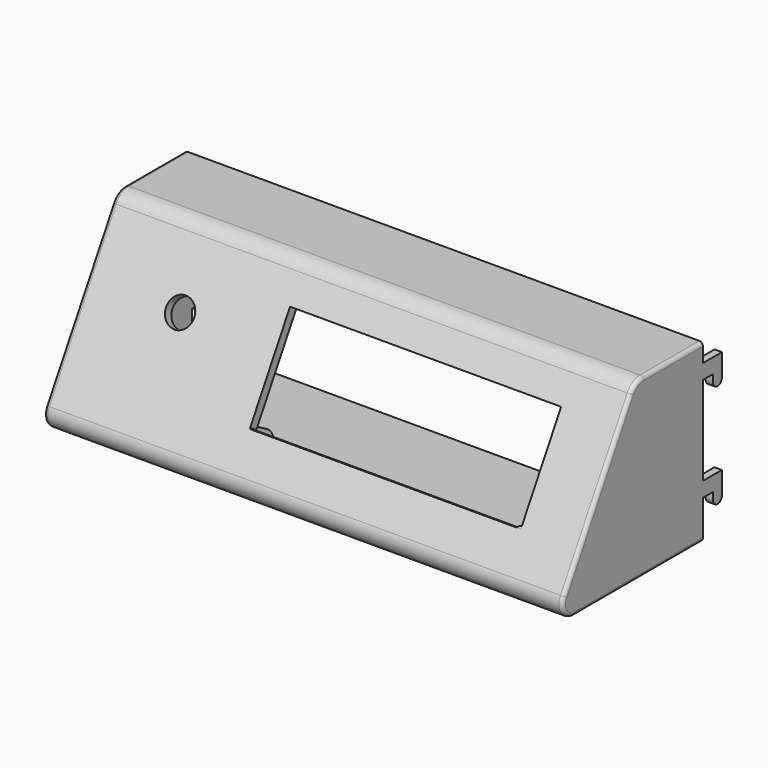
from build123d import *

# Parameters (mm, degrees)
REVOLVE001_PLACEMENT_ANGLE  = 330
REVOLVE002_PLACEMENT_ANGLE  = 330
REVOLVE003_PLACEMENT_ANGLE  = 330
REVOLVE_PLACEMENT_ANGLE     = 330
EXTRUDE008_DEPTH            = 2
EXTRUDE007_DEPTH            = 2
CYLINDER011_R               = 3.8
CYLINDER011_DEPTH           = 3
CYLINDER011_PLACEMENT_ANGLE = 60
BOX020_W                    = 73.2
BOX020_H                    = 27.2
BOX020_DEPTH                = 3
BOX020_PLACEMENT_ANGLE      = 60
EXTRUDE006_DEPTH            = 140
FILLET013_R                 = 1
FILLET014_R                 = 1


with BuildPart() as revolve001:
    # Sketch040 → Revolve001 (revolve)
    with BuildSketch(Plane.YZ):
        with BuildLine():
            Line((0, 0), (0, 2.3))
            Line((0, 2.3), (8.5, 2.3))
            Line((8.5, 2.3), (8.5, 1.35))
            Line((8.5, 1.35), (5.1, 1.35))
            ThreePointArc((5.1, 1.35), (3.75, 1.75), (2.4, 1.35))
            Line((1.4, 1.35), (2.4, 1.35))
            Line((1.4, 0), (1.4, 1.35))
            Line((0, 0), (1.4, 0))
        make_face()
    revolve(axis=Axis((0, 0, 0), (0, 1, 0)))


with BuildPart() as revolve001_1:
    # Revolve001 placement: moved
    add(revolve001.part.moved(Location((-21.009, -76.9733, -41.739))).rotate(Axis((-21.009, -76.9733, -41.739), (1, 0, 0)), REVOLVE001_PLACEMENT_ANGLE))


with BuildPart() as revolve002:
    # Sketch040 → Revolve002 (revolve)
    with BuildSketch(Plane.YZ):
        with BuildLine():
            Line((0, 0), (0, 2.3))
            Line((0, 2.3), (8.5, 2.3))
            Line((8.5, 2.3), (8.5, 1.35))
            Line((8.5, 1.35), (5.1, 1.35))
            ThreePointArc((5.1, 1.35), (3.75, 1.75), (2.4, 1.35))
            Line((1.4, 1.35), (2.4, 1.35))
            Line((1.4, 0), (1.4, 1.35))
            Line((0, 0), (1.4, 0))
        make_face()
    revolve(axis=Axis((0, 0, 0), (0, 1, 0)))


with BuildPart() as revolve002_1:
    # Revolve002 placement: moved
    add(revolve002.part.moved(Location((-21.009, -92.473316, -68.585836))).rotate(Axis((-21.009, -92.473316, -68.585836), (1, 0, 0)), REVOLVE002_PLACEMENT_ANGLE))


with BuildPart() as revolve003:
    # Sketch040 → Revolve003 (revolve)
    with BuildSketch(Plane.YZ):
        with BuildLine():
            Line((0, 0), (0, 2.3))
            Line((0, 2.3), (8.5, 2.3))
            Line((8.5, 2.3), (8.5, 1.35))
            Line((8.5, 1.35), (5.1, 1.35))
            ThreePointArc((5.1, 1.35), (3.75, 1.75), (2.4, 1.35))
            Line((1.4, 1.35), (2.4, 1.35))
            Line((1.4, 0), (1.4, 1.35))
            Line((0, 0), (1.4, 0))
        make_face()
    revolve(axis=Axis((0, 0, 0), (0, 1, 0)))


with BuildPart() as revolve003_1:
    # Revolve003 placement: moved
    add(revolve003.part.moved(Location((53.991, -92.4733, -68.5858))).rotate(Axis((53.991, -92.4733, -68.5858), (1, 0, 0)), REVOLVE003_PLACEMENT_ANGLE))


with BuildPart() as revolve_body:
    # Sketch040 → Revolve (revolve)
    with BuildSketch(Plane.YZ):
        with BuildLine():
            Line((0, 0), (0, 2.3))
            Line((0, 2.3), (8.5, 2.3))
            Line((8.5, 2.3), (8.5, 1.35))
            Line((8.5, 1.35), (5.1, 1.35))
            ThreePointArc((5.1, 1.35), (3.75, 1.75), (2.4, 1.35))
            Line((1.4, 1.35), (2.4, 1.35))
            Line((1.4, 0), (1.4, 1.35))
            Line((0, 0), (1.4, 0))
        make_face()
    revolve(axis=Axis((0, 0, 0), (0, 1, 0)))


with BuildPart() as revolve_body_1:
    # Revolve placement: moved
    add(revolve_body.part.moved(Location((53.991, -76.973316, -41.739049))).rotate(Axis((53.991, -76.973316, -41.739049), (1, 0, 0)), REVOLVE_PLACEMENT_ANGLE))


with BuildPart() as extrude008:
    # Sketch032 → Extrude008 (new body)
    with BuildSketch(Plane.YZ):
        with BuildLine():
            Line((0, 0), (-43.366025, 0))
            ThreePointArc((-44.665064, 2.25), (-44.665064, 0.75), (-43.366025, 0))
            Line((-44.665064, 2.25), (-22.165064, 41.221143))
            ThreePointArc((-20, 42.471143), (-21.25, 42.136207), (-22.165064, 41.221143))
            Line((-20, 42.471143), (0, 42.471143))
            Line((0, 42.471143), (0, 40))
            Line((0, 40), (6.4, 40))
            Line((6.4, 40), (6.4, 34))
            ThreePointArc((3.4, 34), (4.9, 32.5), (6.4, 34))
            Line((3.4, 36), (3.4, 34))
            Line((0, 36), (3.4, 36))
            Line((0, 36), (0, 12))
            Line((6.4, 12), (0, 12))
            Line((6.4, 6), (6.4, 12))
            ThreePointArc((3.4, 6), (4.9, 4.5), (6.4, 6))
            Line((3.4, 8), (3.4, 6))
            Line((0, 8), (3.4, 8))
            Line((0, 0), (0, 8))
        make_face()
    extrude(amount=EXTRUDE008_DEPTH)


with BuildPart() as extrude008_1:
    # Extrude008 placement: moved
    add(extrude008.part.moved(Location((-70.558895, -50.039221, -79.500001))))


with BuildPart() as extrude007:
    # Sketch032 → Extrude007 (new body)
    with BuildSketch(Plane.YZ):
        with BuildLine():
            Line((0, 0), (-43.366025, 0))
            ThreePointArc((-44.665064, 2.25), (-44.665064, 0.75), (-43.366025, 0))
            Line((-44.665064, 2.25), (-22.165064, 41.221143))
            ThreePointArc((-20, 42.471143), (-21.25, 42.136207), (-22.165064, 41.221143))
            Line((-20, 42.471143), (0, 42.471143))
            Line((0, 42.471143), (0, 40))
            Line((0, 40), (6.4, 40))
            Line((6.4, 40), (6.4, 34))
            ThreePointArc((3.4, 34), (4.9, 32.5), (6.4, 34))
            Line((3.4, 36), (3.4, 34))
            Line((0, 36), (3.4, 36))
            Line((0, 36), (0, 12))
            Line((6.4, 12), (0, 12))
            Line((6.4, 6), (6.4, 12))
            ThreePointArc((3.4, 6), (4.9, 4.5), (6.4, 6))
            Line((3.4, 8), (3.4, 6))
            Line((0, 8), (3.4, 8))
            Line((0, 0), (0, 8))
        make_face()
    extrude(amount=EXTRUDE007_DEPTH)


with BuildPart() as extrude007_1:
    # Extrude007 placement: moved
    add(extrude007.part.moved(Location((67.441105, -50.039221, -79.500001))))


with BuildPart() as cylinder011:
    # Cylinder011 → Cylinder011 (new body)
    with BuildSketch(Plane.XY):
        Circle(CYLINDER011_R)
    extrude(amount=CYLINDER011_DEPTH)


with BuildPart() as cylinder011_1:
    # Cylinder011 placement: moved
    add(cylinder011.part.moved(Location((25, -10.2958, 29.038294))).rotate(Axis((25, -10.2958, 29.038294), (1, 0, 0)), CYLINDER011_PLACEMENT_ANGLE))


with BuildPart() as cube004:
    # Box020 → Box020 (new body)
    with BuildSketch(Plane.XY):
        with Locations((36.6, 13.6)):
            Rectangle(BOX020_W, BOX020_H)
    extrude(amount=BOX020_DEPTH)


with BuildPart() as cube004_1:
    # Box020 placement: moved
    add(cube004.part.moved(Location((51, -19.2958, 13.449837))).rotate(Axis((51, -19.2958, 13.449837), (1, 0, 0)), BOX020_PLACEMENT_ANGLE))


with BuildPart() as fusion010:
    # Sketch031 → Extrude006 (new body)
    with BuildSketch(Plane.YZ):
        with BuildLine():
            Line((20, 47.471143), (0, 47.471143))
            ThreePointArc((0, 47.471143), (-2.5, 46.80127), (-4.330127, 44.971143))
            Line((-4.330127, 44.971143), (-26.830127, 6))
            ThreePointArc((-26.830127, 6), (-26.830127, 2), (-23.366025, 0))
            Line((-23.366025, 0), (20, 0))
            Line((20, 0), (20, 2.5))
            Line((20, 2.5), (-23.366025, 2.5))
            ThreePointArc((-24.665064, 4.75), (-24.665064, 3.25), (-23.366025, 2.5))
            Line((-24.665064, 4.75), (-2.165064, 43.721143))
            ThreePointArc((0, 44.971143), (-1.25, 44.636207), (-2.165064, 43.721143))
            Line((0, 44.971143), (20, 44.971143))
            Line((20, 44.971143), (20, 47.471143))
        make_face()
    extrude(amount=EXTRUDE006_DEPTH)

    # Cut003: cut Cube004
    add(cube004_1.part, mode=Mode.SUBTRACT)

    # Cut004: cut Cylinder011
    add(cylinder011_1.part, mode=Mode.SUBTRACT)


with BuildPart() as fusion010_1:
    # Cut004 placement: moved
    add(fusion010.part.moved(Location((-70.558895, -70.039221, -82.000001))))

    # Fillet013
    fillet013_edges = [fusion010_1.edges().sort_by_distance(p)[0] for p in [
        (69.441105, -60.039221, -34.528858),
        (69.441105, -72.539221, -35.198731),
        (69.441105, -85.619348, -56.514429),
        (69.441105, -96.869348, -80.000001),
        (69.441105, -71.722234, -82.000001),
    ]]
    fillet(fillet013_edges, radius=FILLET013_R)

    # Fillet014
    fillet014_edges = [fusion010_1.edges().sort_by_distance(p)[0] for p in [
        (-70.558895, -60.039221, -34.528858),
        (-70.558895, -72.539221, -35.198731),
        (-70.558895, -85.619348, -56.514429),
        (-70.558895, -96.869348, -80.000001),
        (-70.558895, -71.722234, -82.000001),
    ]]
    fillet(fillet014_edges, radius=FILLET014_R)

    # Fusion005: union Extrude007
    add(extrude007_1.part)

    # Fusion006: union Extrude008
    add(extrude008_1.part)

    # Fusion007: union Revolve body
    add(revolve_body_1.part)

    # Fusion008: union Revolve003
    add(revolve003_1.part)

    # Fusion009: union Revolve002
    add(revolve002_1.part)

    # Fusion010: union Revolve001
    add(revolve001_1.part)


solid = fusion010_1.part
